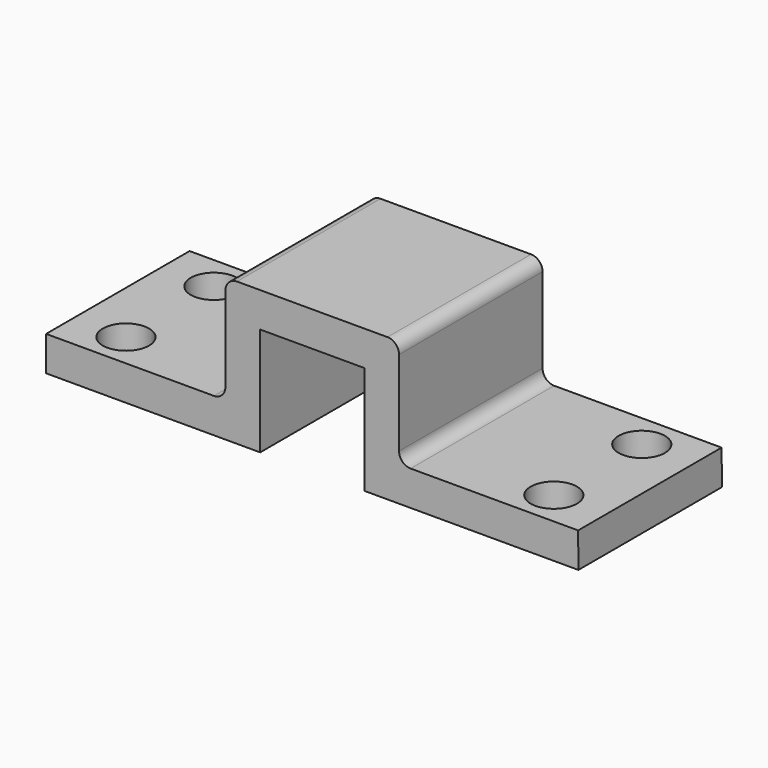
from build123d import *

# Parameters (mm, degrees)
F1_DEPTH = 787.4
F2_R     = 101.6
F3_DEPTH = 152.401


with BuildPart() as f1:
    # F0 (on Front) → F1 (new body)
    with BuildSketch(Plane.XZ):
        with BuildLine():
            Line((0, 152.4), (0, 0))
            Line((0, 0), (939.8, 0))
            Line((939.8, 0), (939.8, 474.837991))
            Line((939.8, 474.837991), (1397, 474.837991))
            Line((1397, 474.837991), (1397, 0))
            Line((1397, 0), (2336.8, 0))
            Line((2336.8, 0), (2335.524559, 152.4))
            Line((2335.524559, 152.4), (1600.2, 152.4))
            ThreePointArc((1600.2, 152.4), (1564.278976, 167.278976), (1549.4, 203.2))
            Line((1549.4, 203.2), (1549.4, 576.437991))
            ThreePointArc((1549.4, 576.437991), (1534.521024, 612.359015), (1498.6, 627.237991))
            Line((1498.6, 627.237991), (838.2, 627.237991))
            ThreePointArc((838.2, 627.237991), (802.278976, 612.359015), (787.4, 576.437991))
            Line((787.4, 576.437991), (787.4, 203.2))
            ThreePointArc((787.4, 203.2), (772.521024, 167.278976), (736.6, 152.4))
            Line((736.6, 152.4), (0, 152.4))
        make_face()
    extrude(amount=F1_DEPTH)

    # F2 (on face) → F3 (cut, through all)
    with BuildSketch(Plane.XY.offset(152.4)):
        with Locations((228.6, -635)):
            Circle(F2_R)
        with Locations((2106.924559, -152.4)):
            Circle(F2_R)
        with Locations((2106.924559, -635)):
            Circle(F2_R)
        with Locations((228.6, -152.4)):
            Circle(F2_R)
    extrude(amount=-F3_DEPTH, mode=Mode.SUBTRACT)


solid = f1.part
